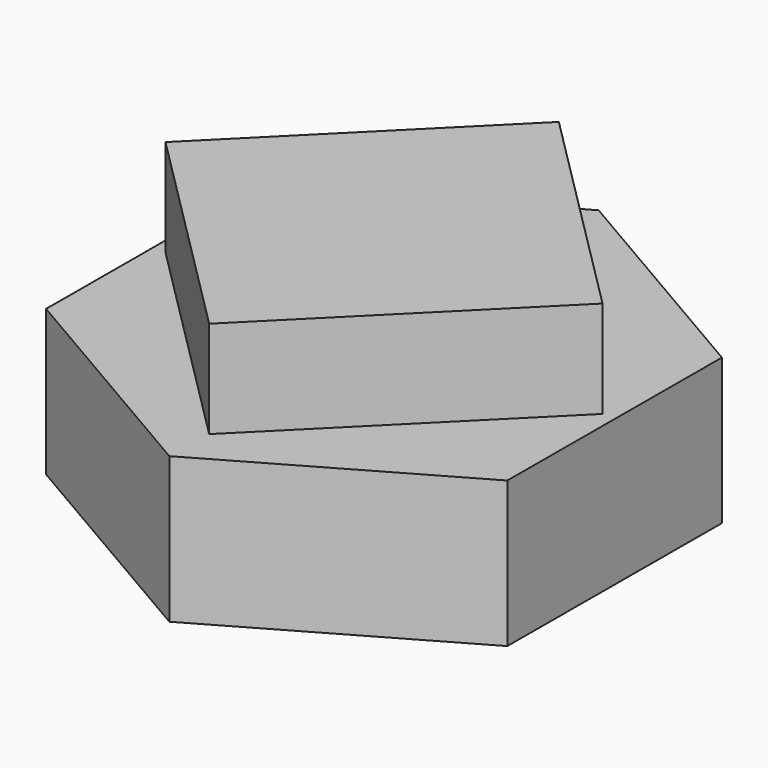
from build123d import *

# Parameters (mm, degrees)
F1_DEPTH = 38.1
F3_DEPTH = 25.4


with BuildPart() as f1:
    # F0 (on Top) → F1 (new body)
    with BuildSketch(Plane.XY):
        Polygon((-60.578411, -34.675822), (-0.259063, -69.800354), (60.319348, -35.124532), (60.578411, 34.675822), (0.259063, 69.800354), (-60.319348, 35.124532), align=None)
    extrude(amount=F1_DEPTH)

    # F2 (on face) → F3 (join)
    with BuildSketch(Plane.XY.offset(38.1)):
        Polygon((57.11535, 0), (0, 57.11535), (-57.11535, 0), (0, -57.11535), align=None)
    extrude(amount=F3_DEPTH)


solid = f1.part
